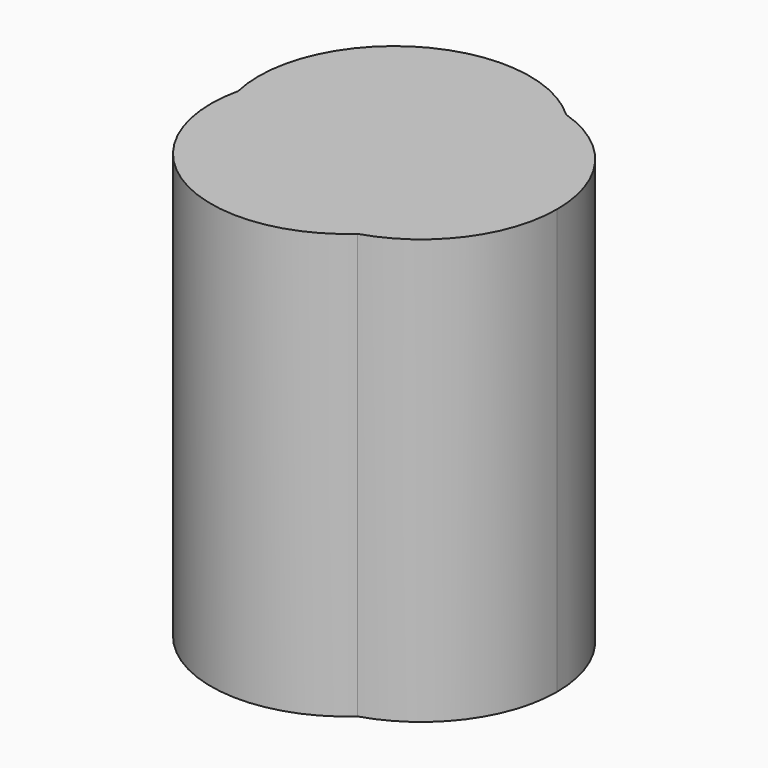
from build123d import *

# Parameters (mm, degrees)
F1_DEPTH = 5


with BuildPart() as f1:
    # F0 (on Top) → F1 (new body)
    with BuildSketch(Plane.XY):
        with BuildLine():
            ThreePointArc((-0.6820238036, 1.1729948321), (0.0561177293, 1.557356252), (0.8874445186, 1.5188543916))
            ThreePointArc((0.8874445186, 1.5188543916), (-0.9946476823, 1.7349353333), (-1.7581938413, 0.0011650806))
            ThreePointArc((-1.7581938413, 0.0011650806), (-1.3764265049, 0.7306369927), (-0.6820238036, 1.1729948321))
        make_face()
        with BuildLine():
            ThreePointArc((0.8722197227, -1.5329195634), (1.687399205, -0.9542567506), (1.9998045321, -0.004640433))
            ThreePointArc((1.9998045321, -0.004640433), (1.6921206086, 0.9385431759), (0.8874445186, 1.5188543916))
            ThreePointArc((0.8874445186, 1.5188543916), (1.2636324121, 0.9874494272), (1.3963873776, 0.3500447783))
            ThreePointArc((1.3963873776, 0.3500447783), (1.386712007, 0.1745413701), (1.3578031615, 0.0011650806))
            ThreePointArc((1.3578031615, 0.0011650806), (1.3870170835, -0.1731246866), (1.3967949688, -0.3495751589))
            ThreePointArc((1.3967949688, -0.3495751589), (1.2597728974, -0.9967774396), (0.8722197227, -1.5329195634))
        make_face()
        with BuildLine():
            ThreePointArc((-1.7581938413, 0.0011650806), (-1.0047459863, -1.7290954753), (0.8722197227, -1.5329195634))
            ThreePointArc((0.8722197227, -1.5329195634), (0.0372073045, -1.5623495231), (-0.6987161891, -1.1667127292))
            ThreePointArc((-0.6987161891, -1.1667127292), (-1.3826937985, -0.7226964623), (-1.7581938413, 0.0011650806))
        make_face()
        with BuildLine():
            ThreePointArc((1.3963873776, 0.3500447783), (1.2636324121, 0.9874494272), (0.8874445186, 1.5188543916))
            ThreePointArc((0.8874445186, 1.5188543916), (0.0561177293, 1.557356252), (-0.6820238036, 1.1729948321))
            ThreePointArc((-0.6820238036, 1.1729948321), (0.5953118751, 1.0351798075), (1.3578031615, 0.0011650806))
            ThreePointArc((1.3578031615, 0.0011650806), (1.386712007, 0.1745413701), (1.3963873776, 0.3500447783))
        make_face()
        with BuildLine():
            ThreePointArc((1.3578031615, 0.0011650806), (0.5953118751, 1.0351798075), (-0.6820238036, 1.1729948321))
            ThreePointArc((-0.6820238036, 1.1729948321), (-1.1991022594, 0.0067705457), (-0.6987161891, -1.1667127292))
            ThreePointArc((-0.6987161891, -1.1667127292), (0.588225784, -1.0382882168), (1.3578031615, 0.0011650806))
        make_face()
        with BuildLine():
            ThreePointArc((-0.6987161891, -1.1667127292), (-1.1991022594, 0.0067705457), (-0.6820238036, 1.1729948321))
            ThreePointArc((-0.6820238036, 1.1729948321), (-1.3764265049, 0.7306369927), (-1.7581938413, 0.0011650806))
            ThreePointArc((-1.7581938413, 0.0011650806), (-1.3826937985, -0.7226964623), (-0.6987161891, -1.1667127292))
        make_face()
        with BuildLine():
            ThreePointArc((-0.6987161891, -1.1667127292), (0.0372073045, -1.5623495231), (0.8722197227, -1.5329195634))
            ThreePointArc((0.8722197227, -1.5329195634), (1.2597728974, -0.9967774396), (1.3967949688, -0.3495751589))
            ThreePointArc((1.3967949688, -0.3495751589), (1.3870170835, -0.1731246866), (1.3578031615, 0.0011650806))
            ThreePointArc((1.3578031615, 0.0011650806), (0.588225784, -1.0382882168), (-0.6987161891, -1.1667127292))
        make_face()
    extrude(amount=F1_DEPTH)


solid = f1.part
